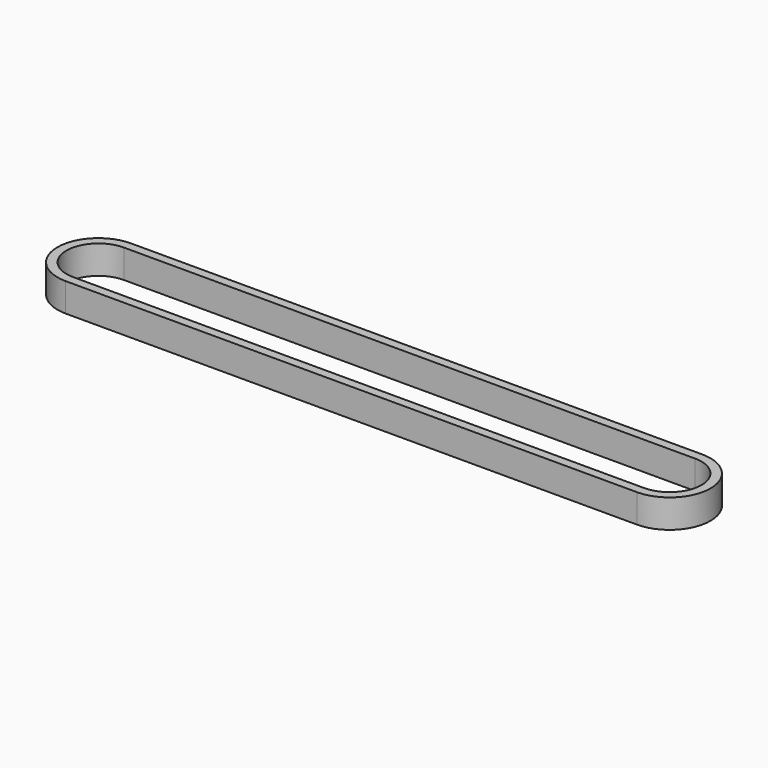
from build123d import *

# Parameters (mm, degrees)
PAD_DEPTH = 9.525


with BuildPart() as part:
    # Sketch → Pad (new body)
    with BuildSketch(Plane.XY):
        with BuildLine():
            ThreePointArc((0, 13.6285), (-13.6285, 0), (0, -13.6285))
            Line((0, -13.6285), (190.497194, -13.6285))
            ThreePointArc((190.497194, -13.6285), (204.125694, 0), (190.497194, 13.6285))
            Line((0, 13.6285), (190.497194, 13.6285))
        make_face()
        with BuildLine():
            ThreePointArc((0, 10.6285), (-10.6285, 0), (0, -10.6285))
            Line((0, -10.6285), (190.497194, -10.6285))
            ThreePointArc((190.497194, -10.6285), (201.125694, 0), (190.497194, 10.6285))
            Line((0, 10.6285), (190.497194, 10.6285))
        make_face(mode=Mode.SUBTRACT)
    extrude(amount=PAD_DEPTH)


solid = part.part
